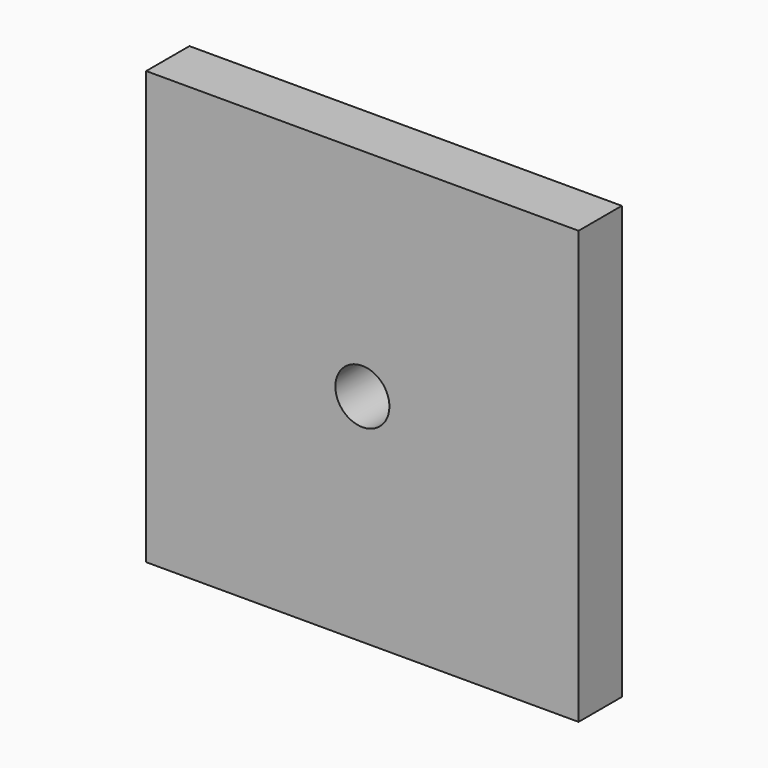
from build123d import *

# Parameters (mm, degrees)
F0_W     = 101.6
F0_H     = 101.6
F1_DEPTH = 12.7
F2_R     = 6.35
F3_DEPTH = 12.701


with BuildPart() as f1:
    # F0 (on Front) → F1 (new body)
    with BuildSketch(Plane.XZ):
        Rectangle(F0_W, F0_H)
    extrude(amount=-F1_DEPTH)

    # F2 (on face) → F3 (cut, through all)
    with BuildSketch(Plane(origin=(0, 12.7, 0), x_dir=(-1, 0, 0), z_dir=(0, 1, 0))):
        Circle(F2_R)
    extrude(amount=-F3_DEPTH, mode=Mode.SUBTRACT)


solid = f1.part
